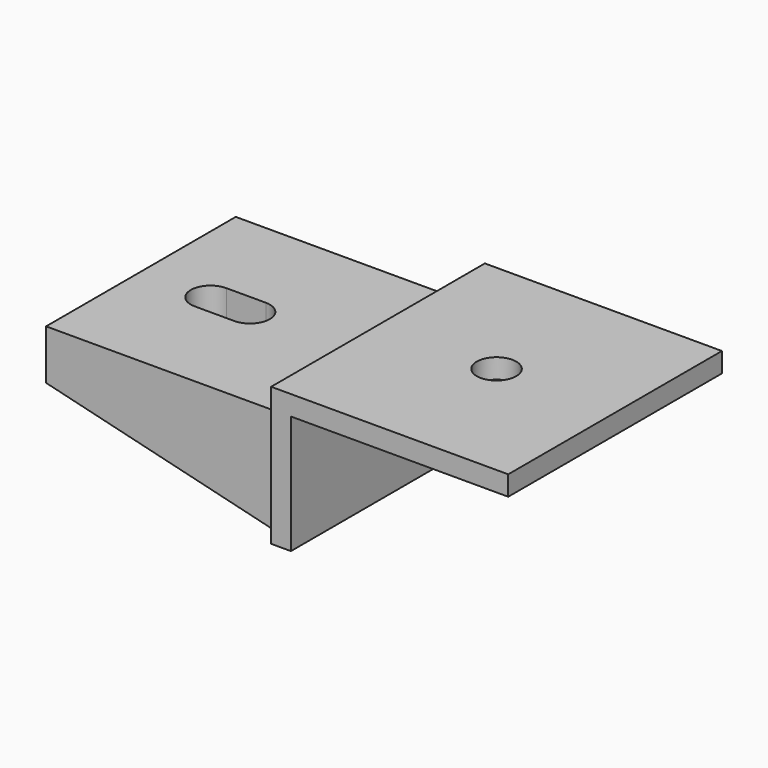
from build123d import *

# Parameters (mm, degrees)
F0_R      = 6.35
F1_DEPTH  = 6.35
F2_W      = 6.35
F2_H      = 85.852
F3_DEPTH  = 38.1
F4_W      = 76.2
F4_H      = 9.652
F5_DEPTH  = 76.2
F7_DEPTH  = 10.16
F9_DEPTH  = 9.652
F11_DEPTH = 9.652


with BuildPart() as f1:
    # F0 (on Top) → F1 (new body)
    with BuildSketch(Plane.XY):
        Polygon((0, -85.852), (0, 0), (-38.1, 0), (-76.2, 0), (-76.2, -85.852), align=None)
        with Locations((-38.1, -42.926)):
            Circle(F0_R, mode=Mode.SUBTRACT)
    extrude(amount=F1_DEPTH)

    # F2 (on face) → F3 (join)
    with BuildSketch(Plane(origin=(0, 0, 0), x_dir=(1, 0, 0), z_dir=(0, 0, -1))):
        with Locations((-73.025, 42.926)):
            Rectangle(F2_W, F2_H)
    extrude(amount=F3_DEPTH)

    # F4 (on face) → F5 (join)
    with BuildSketch(Plane(origin=(-76.2, 0, 0), x_dir=(0, -1, 0), z_dir=(-1, 0, 0))):
        with Locations((42.926, -8.128)):
            Rectangle(F4_W, F4_H)
    extrude(amount=F5_DEPTH)

    # F6 (on face) → F7 (cut)
    with BuildSketch(Plane.XY.offset(-3.302)):
        with BuildLine():
            ThreePointArc((-130.041851, -49.243254), (-125.555699, -47.381211), (-123.698, -42.893257))
            ThreePointArc((-123.698, -42.893257), (-125.554284, -38.40672), (-130.037848, -36.543265))
            ThreePointArc((-130.037848, -36.543265), (-136.398, -42.891255), (-130.041851, -49.243254))
        make_face()
        with BuildLine():
            ThreePointArc((-123.698, -42.893257), (-121.838129, -38.40313), (-117.348004, -36.543257))
            Line((-117.348004, -36.543257), (-130.037848, -36.543265))
            ThreePointArc((-130.037848, -36.543265), (-125.554284, -38.40672), (-123.698, -42.893257))
        make_face()
        with BuildLine():
            ThreePointArc((-117.348001, -49.243257), (-112.857872, -47.383386), (-110.998, -42.893257))
            ThreePointArc((-110.998, -42.893257), (-112.857873, -38.403127), (-117.348004, -36.543257))
            ThreePointArc((-117.348004, -36.543257), (-121.838129, -38.40313), (-123.698, -42.893257))
            ThreePointArc((-123.698, -42.893257), (-121.838129, -47.383385), (-117.348001, -49.243257))
        make_face()
        with BuildLine():
            Line((-130.041851, -49.243254), (-117.348001, -49.243257))
            ThreePointArc((-117.348001, -49.243257), (-121.838129, -47.383385), (-123.698, -42.893257))
            ThreePointArc((-123.698, -42.893257), (-125.555699, -47.381211), (-130.041851, -49.243254))
        make_face()
    extrude(amount=-F7_DEPTH, mode=Mode.SUBTRACT)

    # F8 (on face) → F9 (join)
    with BuildSketch(Plane.XZ.offset(81.026)):
        Polygon((-76.2, -12.954), (-152.4, -12.954), (-152.4, -19.304), (-75.782955, -37.925284), align=None)
    extrude(amount=-F9_DEPTH)

    # F10 (on face) → F11 (join)
    with BuildSketch(Plane(origin=(0, -4.826, 0), x_dir=(-1, 0, 0), z_dir=(0, 1, 0))):
        Polygon((152.4, -19.304), (152.4, -12.954), (76.2, -12.954), (75.944759, -37.612777), align=None)
    extrude(amount=-F11_DEPTH)


solid = f1.part
